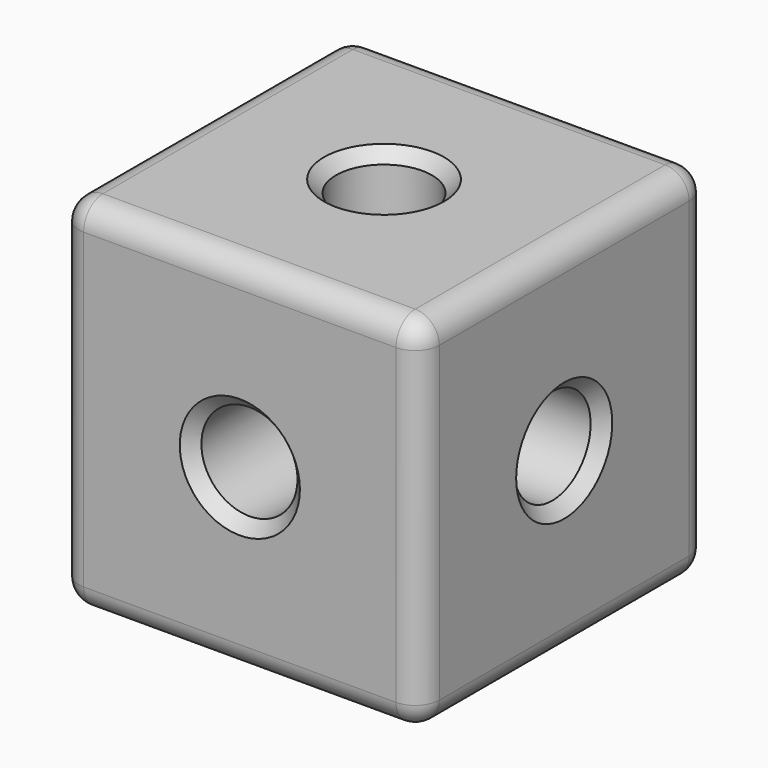
from build123d import *

# Parameters (mm, degrees)
F0_W     = 76.2
F0_H     = 76.2
F1_DEPTH = 38.1
F2_R     = 10.16
F3_DEPTH = 147.32
F4_R     = 10.16
F5_DEPTH = 163.322
F6_R     = 10.16
F7_DEPTH = 99.06
F8_R     = 5.08
F9_SIZE  = 2.54


with BuildPart() as f1:
    # F0 (on Top) → F1 (new body, symmetric)
    with BuildSketch(Plane.XY):
        Rectangle(F0_W, F0_H)
    extrude(amount=F1_DEPTH, both=True)

    # F2 (on face) → F3 (cut, symmetric)
    with BuildSketch(Plane(origin=(-38.1, 0, 0), x_dir=(0, -1, 0), z_dir=(-1, 0, 0))):
        Circle(F2_R)
    extrude(amount=F3_DEPTH, both=True, mode=Mode.SUBTRACT)

    # F4 (on face) → F5 (cut)
    with BuildSketch(Plane(origin=(0, 0, -38.1), x_dir=(1, 0, 0), z_dir=(0, 0, -1))):
        Circle(F4_R)
    extrude(amount=-F5_DEPTH, mode=Mode.SUBTRACT)

    # F6 (on face) → F7 (cut)
    with BuildSketch(Plane.XZ.offset(38.1)):
        Circle(F6_R)
    extrude(amount=-F7_DEPTH, mode=Mode.SUBTRACT)

    # F8
    f8_edges = [f1.edges().sort_by_distance(p)[0] for p in [
        (-38.1, 0, 38.1),
        (-38.1, -38.1, 0),
        (-38.1, 38.1, 0),
        (-38.1, 0, -38.1),
        (0, 38.1, -38.1),
        (0, -38.1, -38.1),
        (0, 38.1, 38.1),
        (0, -38.1, 38.1),
        (38.1, -38.1, 0),
        (38.1, 0, -38.1),
        (38.1, 38.1, 0),
        (38.1, 0, 38.1),
    ]]
    fillet(f8_edges, radius=F8_R)

    # F9
    f9_edges = [f1.edges().sort_by_distance(p)[0] for p in [
        (-10.16, 0, -38.1),
        (38.1, 10.16, 0),
        (-10.16, -38.1, 0),
        (-10.16, 38.1, 0),
        (-10.16, 0, 38.1),
        (-38.1, 10.16, 0),
    ]]
    chamfer(f9_edges, length=F9_SIZE)


solid = f1.part
